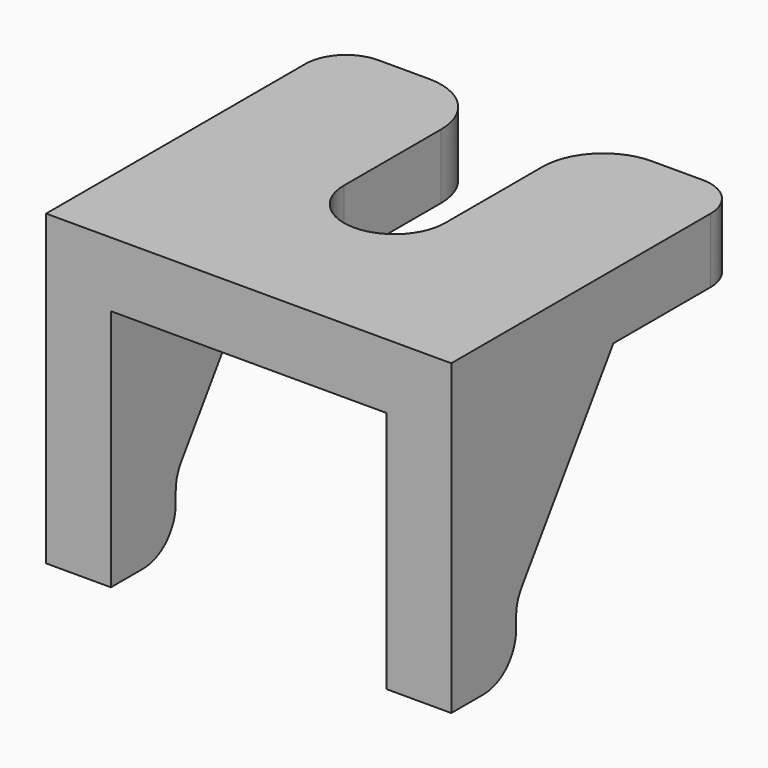
from build123d import *

# Parameters (mm, degrees)
PAD006_DEPTH            = 1.6
PAD007_DEPTH            = 1.6
LINEARPATTERN002_COUNT  = 2
LINEARPATTERN002_PITCH  = 8.4
FILLET008_R             = 1
FILLET009_R             = 1
FILLET010_R             = 1
FILLET011_R             = 1.5
BODY003_PLACEMENT_ANGLE = 90


with BuildPart() as part:
    # Sketch008 → Pad006 (new body)
    with BuildSketch(Plane.XY):
        with BuildLine():
            Line((-4.5, 5), (4.5, 5))
            Line((4.5, 5), (4.5, 1.25))
            Line((0, 1.25), (4.5, 1.25))
            ThreePointArc((0, 1.25), (-1.25, 0), (0, -1.25))
            Line((4.5, -1.25), (0, -1.25))
            Line((4.5, -1.25), (4.5, -5))
            Line((4.5, -5), (-4.5, -5))
            Line((-4.5, -5), (-4.5, 5))
        make_face()
    extrude(amount=PAD006_DEPTH)

    # Sketch009 (on DatumPlane) → Pad007 (join)
    with BuildSketch(Plane.XZ.offset(5)):
        Polygon((-4.5, 0), (-4.5, -6), (-2.5, -6), (-2.5, -4.4), (0.5, 0), align=None)
    pad007 = extrude(amount=-PAD007_DEPTH)

    # LinearPattern002: Pad007 ×2
    with Locations(*[(0, i * LINEARPATTERN002_PITCH, 0) for i in range(1, LINEARPATTERN002_COUNT)]):
        add(pad007)

    # Fillet008
    fillet008_edges = [part.edges().sort_by_distance(p)[0] for p in [
        (-2.5, -4.2, -6),
        (-2.5, 4.2, -6),
    ]]
    fillet(fillet008_edges, radius=FILLET008_R)

    # Fillet009
    fillet009_edges = [part.edges().sort_by_distance(p)[0] for p in [
        (-2.5, -4.2, -4.4),
        (-2.5, 4.2, -4.4),
    ]]
    fillet(fillet009_edges, radius=FILLET009_R)

    # Fillet010
    fillet010_edges = [part.edges().sort_by_distance(p)[0] for p in [
        (4.5, -5, 0.8),
        (4.5, 5, 0.8),
    ]]
    fillet(fillet010_edges, radius=FILLET010_R)

    # Fillet011
    fillet011_edges = [part.edges().sort_by_distance(p)[0] for p in [
        (4.5, -1.25, 0.8),
        (4.5, 1.25, 0.8),
    ]]
    fillet(fillet011_edges, radius=FILLET011_R)


with BuildPart() as part_1:
    # Body003 placement: moved
    add(part.part.moved(Location((-22.4, 32.5, 16.4))).rotate(Axis((-22.4, 32.5, 16.4), (0, 0, 1)), BODY003_PLACEMENT_ANGLE))


solid = part_1.part
